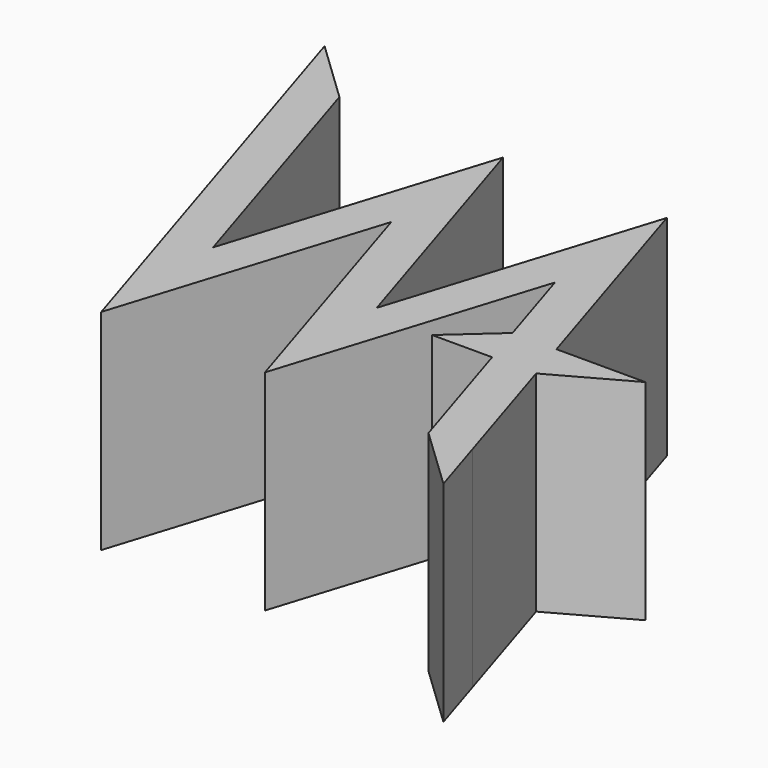
from build123d import *

# Parameters (mm, degrees)
F1_DEPTH = 25


with BuildPart() as f1:
    # F0 (on Top) → F1 (new body)
    with BuildSketch(Plane.XY):
        Polygon((-65.089644, 35.38776), (-62.839644, 28.233216), (-47.839644, -19.463744), (-38.081069, 11.566546), (-28.322489, -19.463747), (-18.563915, 11.566546), (-15.285178, 1.14083), (-20.875348, -3.85917), (-13.71275, -3.85917), (-8.794835, -19.497135), (-1.313915, -26.618291), (-3.563915, -19.463747), (-8.471328, -3.85917), (0.566095, 1.14083), (-6.933905, 1.14083), (-10.043755, 1.14083), (-18.563916, 28.233216), (-28.322492, -2.797077), (-38.081068, 28.233216), (-47.839644, -2.797077), (-57.59822, 28.233216), align=None)
    extrude(amount=F1_DEPTH)


solid = f1.part
